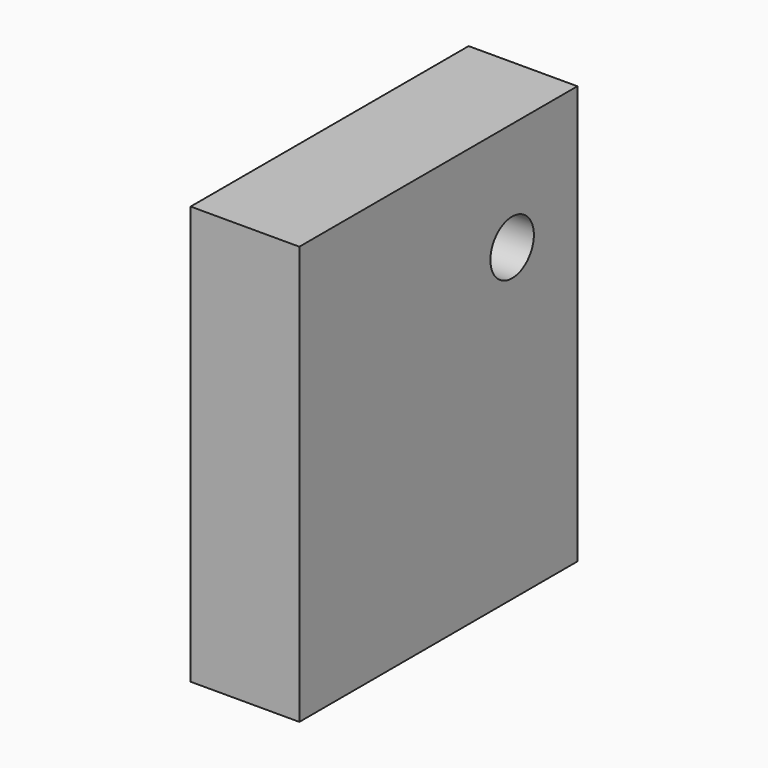
from build123d import *

# Parameters (mm, degrees)
F0_W     = 81.180729
F0_H     = 97.732141
F1_DEPTH = 12.7
F3_D     = 12.7


with BuildPart() as f1:
    # F0 (on Right) → F1 (new body, symmetric)
    with BuildSketch(Plane.YZ):
        with Locations((2.758571, -2.167444)):
            Rectangle(F0_W, F0_H)
    extrude(amount=F1_DEPTH, both=True)

    # F3 (through all)
    with Locations(Plane.YZ.offset(12.7)):
        with Locations((24.298935, 21.298626)):
            Hole(F3_D / 2)


solid = f1.part
